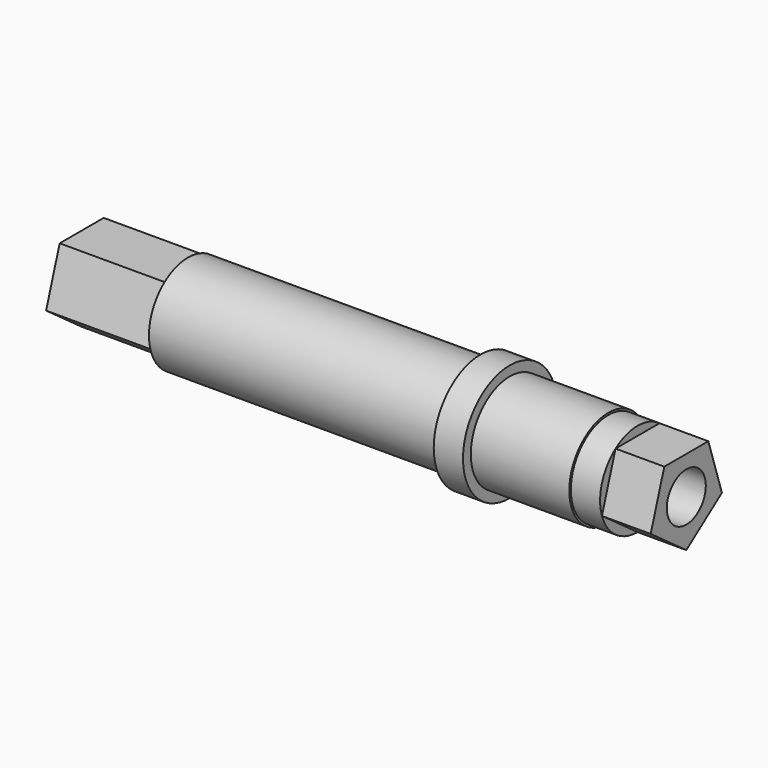
from build123d import *

# Parameters (mm, degrees)
F0_R          = 5
F1_DEPTH      = 10.1
F2_R          = 4.8
F3_DEPTH      = 3
F5_DEPTH      = 5
F5_DEPTH_BACK = 57
F6_R          = 6
F7_DEPTH      = 3
F8_R          = 5
F9_DEPTH      = 30
F10_R         = 2.5
F11_DEPTH     = 80


with BuildPart() as f1:
    # F0 (on Right) → F1 (new body)
    with BuildSketch(Plane.YZ):
        Circle(F0_R)
    extrude(amount=-F1_DEPTH)

    # F2 (on face) → F3 (join)
    with BuildSketch(Plane.YZ):
        Circle(F2_R)
    extrude(amount=F3_DEPTH)

    # F4 (on face) → F5 (join, two sides)
    with BuildSketch(Plane.YZ.offset(3)) as f5_sk:
        Polygon((-4.565071, -1.483282), (0, -4.8), (4.565071, -1.483282), (2.821369, 3.883282), (-2.821369, 3.883282), align=None)
    extrude(amount=F5_DEPTH)
    extrude(f5_sk.sketch, amount=-F5_DEPTH_BACK)

    # F6 (on face) → F7 (join)
    with BuildSketch(Plane(origin=(-10.1, 0, 0), x_dir=(0, -1, 0), z_dir=(-1, 0, 0))):
        Circle(F6_R)
    extrude(amount=F7_DEPTH)

    # F8 (on face) → F9 (join)
    with BuildSketch(Plane(origin=(-13.1, 0, 0), x_dir=(0, -1, 0), z_dir=(-1, 0, 0))):
        Circle(F8_R)
    extrude(amount=F9_DEPTH)

    # F10 (on face) → F11 (cut)
    with BuildSketch(Plane.YZ.offset(8)):
        Circle(F10_R)
    extrude(amount=-F11_DEPTH, mode=Mode.SUBTRACT)


solid = f1.part
